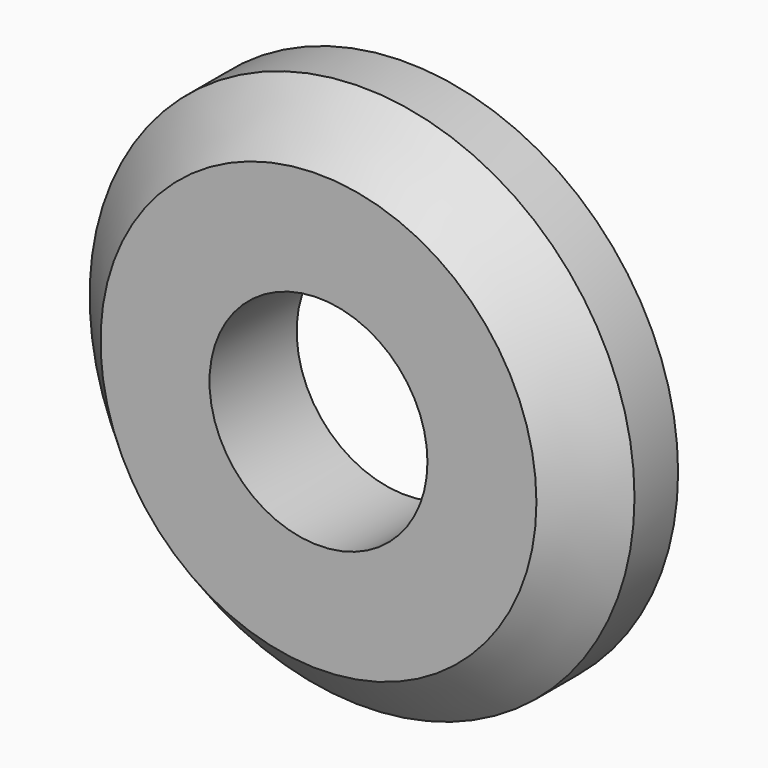
from build123d import *

# Parameters (mm, degrees)
SKETCH_R     = 10
SKETCH_R_2   = 4
PAD_DEPTH    = 4
CHAMFER_SIZE = 2


with BuildPart() as part:
    # Sketch → Pad (new body)
    with BuildSketch(Plane.XZ):
        Circle(SKETCH_R)
        Circle(SKETCH_R_2, mode=Mode.SUBTRACT)
    extrude(amount=PAD_DEPTH)

    # Chamfer
    chamfer_edges = [part.edges().sort_by_distance(p)[0] for p in [
        (-10, -4, 0),
    ]]
    chamfer(chamfer_edges, length=CHAMFER_SIZE)


solid = part.part
